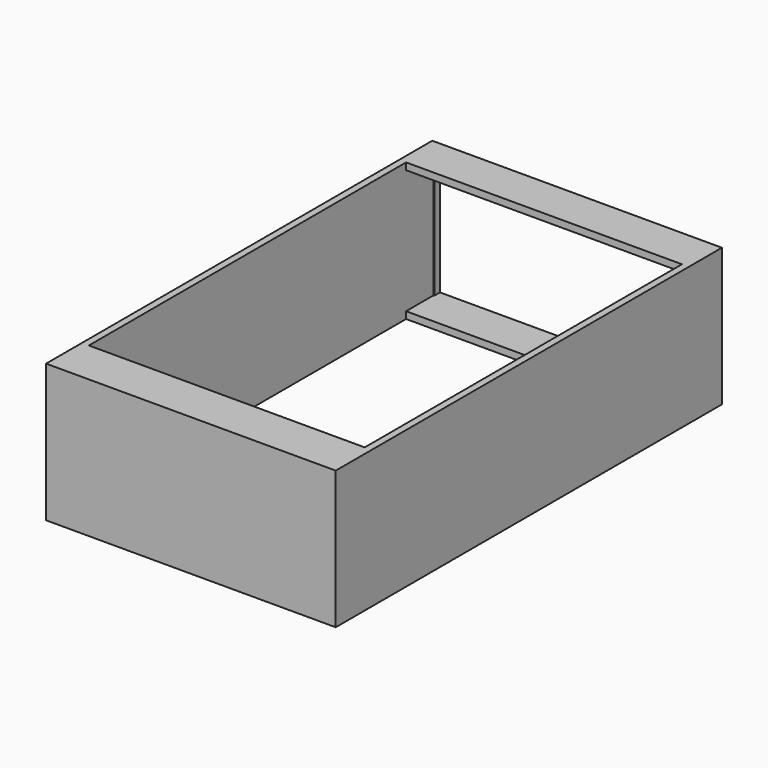
from build123d import *

# Parameters (mm, degrees)
SKETCH_W        = 84
SKETCH_H        = 140
PAD_DEPTH       = 40
SKETCH001_W     = 80
SKETCH001_H     = 136
POCKET_DEPTH    = 36
SKETCH004_W     = 80
SKETCH004_H     = 115
POCKET003_DEPTH = 4
SKETCH005_W     = 79.75218
SKETCH005_H     = 36
POCKET004_DEPTH = 2
SKETCH006_W     = 80
SKETCH006_H     = 115
POCKET005_DEPTH = 2


with BuildPart() as part:
    # Sketch → Pad (new body)
    with BuildSketch(Plane.XY):
        Rectangle(SKETCH_W, SKETCH_H)
    extrude(amount=PAD_DEPTH)

    # Sketch001 → Pocket (cut)
    with BuildSketch(Plane.XY.offset(38)):
        Rectangle(SKETCH001_W, SKETCH001_H)
    extrude(amount=-POCKET_DEPTH, mode=Mode.SUBTRACT)

    # Sketch004 → Pocket003 (cut)
    with BuildSketch(Plane.XY):
        with Locations((0, 0.5)):
            Rectangle(SKETCH004_W, SKETCH004_H)
    extrude(amount=POCKET003_DEPTH, mode=Mode.SUBTRACT)

    # Sketch005 → Pocket004 (cut)
    with BuildSketch(Plane.XZ.offset(-70)):
        with Locations((0.12391, 20)):
            Rectangle(SKETCH005_W, SKETCH005_H)
    extrude(amount=POCKET004_DEPTH, mode=Mode.SUBTRACT)

    # Sketch006 → Pocket005 (cut)
    with BuildSketch(Plane.XY.offset(40)):
        with Locations((0, 0.5)):
            Rectangle(SKETCH006_W, SKETCH006_H)
    extrude(amount=-POCKET005_DEPTH, mode=Mode.SUBTRACT)


solid = part.part
